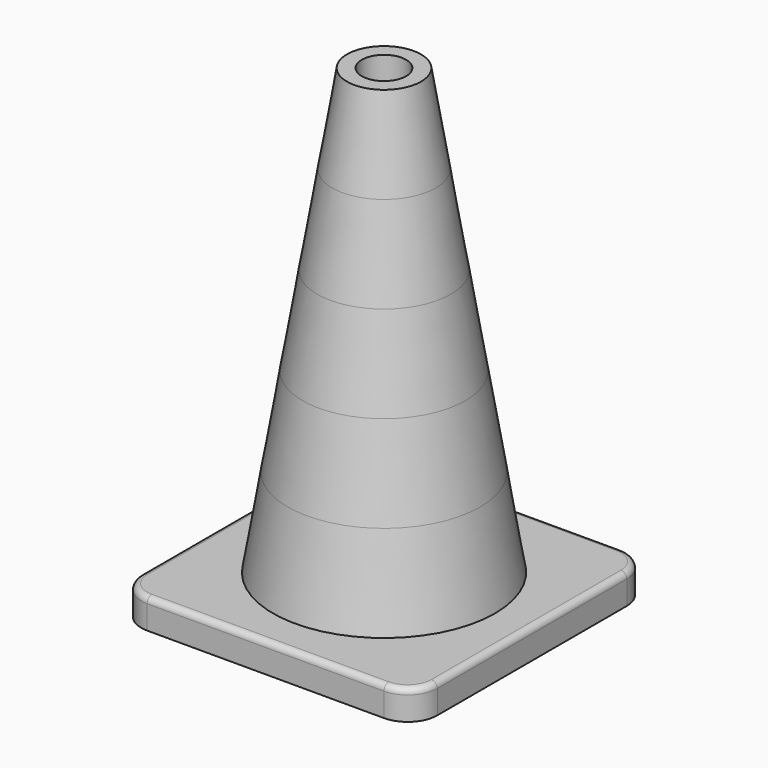
from build123d import *

# Parameters (mm, degrees)
F1_DEPTH   = 10
F2_R       = 37.5
F4_R       = 32.5
F5_FACE_R  = 32.5
F7_R       = 27.5
F8_FACE_R  = 27.5
F10_R      = 22.5
F11_FACE_R = 22.5
F13_R      = 17.5
F14_FACE_R = 17.5
F16_R      = 12.5
F18_R      = 2
F19_R      = 7.5
F20_DEPTH  = 20


with BuildPart() as f1:
    # F0 (on Top) → F1 (new body)
    with BuildSketch(Plane.XY):
        with BuildLine():
            Line((40, 50), (-40, 50))
            ThreePointArc((-40, 50), (-47.0710678119, 47.0710678119), (-50, 40))
            Line((-50, 40), (-50, -40))
            ThreePointArc((-50, -40), (-47.0710678119, -47.0710678119), (-40, -50))
            Line((-40, -50), (40, -50))
            ThreePointArc((40, -50), (47.0710678119, -47.0710678119), (50, -40))
            Line((50, -40), (50, 40))
            ThreePointArc((50, 40), (47.0710678119, 47.0710678119), (40, 50))
        make_face()
    extrude(amount=F1_DEPTH)

    # F18
    f18_edges = [f1.edges().sort_by_distance(p)[0] for p in [
        (0, -50, 10),
        (-47.071068, -47.071068, 10),
        (-50, 0, 10),
        (47.071068, -47.071068, 10),
        (50, 0, 10),
        (47.071068, 47.071068, 10),
        (0, 50, 10),
        (-47.071068, 47.071068, 10),
    ]]
    fillet(f18_edges, radius=F18_R)


with BuildPart() as f5:
    # F2 (on face) → F5 section 0
    with BuildSketch(Plane.XY.offset(10)):
        Circle(F2_R)
    # F4 (on offset) → F5 section 1
    with BuildSketch(Plane.XY.offset(40)):
        Circle(F4_R)
    loft()


with BuildPart() as f8:
    # F5_face (on face) → F8 section 0
    with BuildSketch(Plane.XY.offset(40)):
        Circle(F5_FACE_R)
    # F7 (on offset) → F8 section 1
    with BuildSketch(Plane.XY.offset(70)):
        Circle(F7_R)
    loft()


with BuildPart() as f11:
    # F8_face (on face) → F11 section 0
    with BuildSketch(Plane.XY.offset(70)):
        Circle(F8_FACE_R)
    # F10 (on offset) → F11 section 1
    with BuildSketch(Plane.XY.offset(100)):
        Circle(F10_R)
    loft()


with BuildPart() as f14:
    # F11_face (on face) → F14 section 0
    with BuildSketch(Plane.XY.offset(100)):
        Circle(F11_FACE_R)
    # F13 (on offset) → F14 section 1
    with BuildSketch(Plane.XY.offset(130)):
        Circle(F13_R)
    loft()


with BuildPart() as f17:
    # F14_face (on face) → F17 section 0
    with BuildSketch(Plane.XY.offset(130)):
        Circle(F14_FACE_R)
    # F16 (on offset) → F17 section 1
    with BuildSketch(Plane.XY.offset(160)):
        Circle(F16_R)
    loft()

    # F19 (on face) → F20 (cut)
    with BuildSketch(Plane.XY.offset(160)):
        Circle(F19_R)
    extrude(amount=-F20_DEPTH, mode=Mode.SUBTRACT)


solid = Compound([f1.part, f5.part, f8.part, f11.part, f14.part, f17.part])
